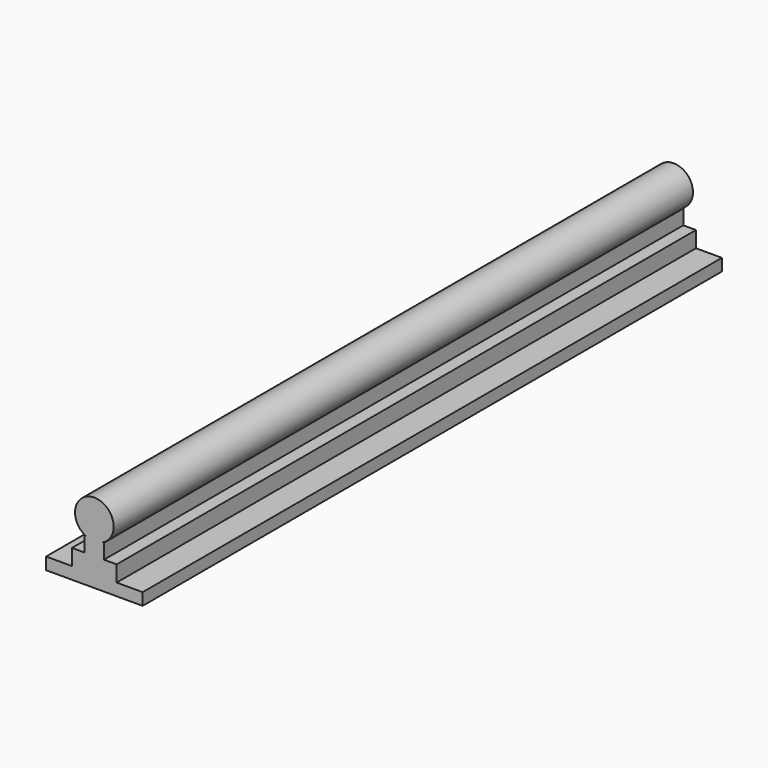
from build123d import *

# Parameters (mm, degrees)
F1_DEPTH = 300


with BuildPart() as f1:
    # F0 (on Front) → F1 (new body)
    with BuildSketch(Plane.XZ):
        with BuildLine():
            Line((-33.991796, -5.594154), (-33.991796, -10.594154))
            Line((-33.991796, -10.594154), (6.008204, -10.594154))
            Line((6.008204, -10.594154), (6.008204, -5.594154))
            Line((6.008204, -5.594154), (-4.741796, -5.594154))
            Line((-4.741796, -5.594154), (-4.741796, 1.051143))
            Line((-4.741796, 1.051143), (-9.991796, 1.051143))
            Line((-9.991796, 1.051143), (-9.991796, 7.205846))
            Line((-9.991796, 7.205846), (-10.504677, 7.205846))
            ThreePointArc((-10.504677, 7.205846), (-13.991796, 22.405846), (-17.478915, 7.205846))
            Line((-17.478915, 7.205846), (-17.991796, 7.205846))
            Line((-17.991796, 7.205846), (-17.991796, 1.051143))
            Line((-17.991796, 1.051143), (-23.241796, 1.051143))
            Line((-23.241796, 1.051143), (-23.241796, -5.594154))
            Line((-23.241796, -5.594154), (-33.991796, -5.594154))
        make_face()
    extrude(amount=F1_DEPTH)


solid = f1.part
